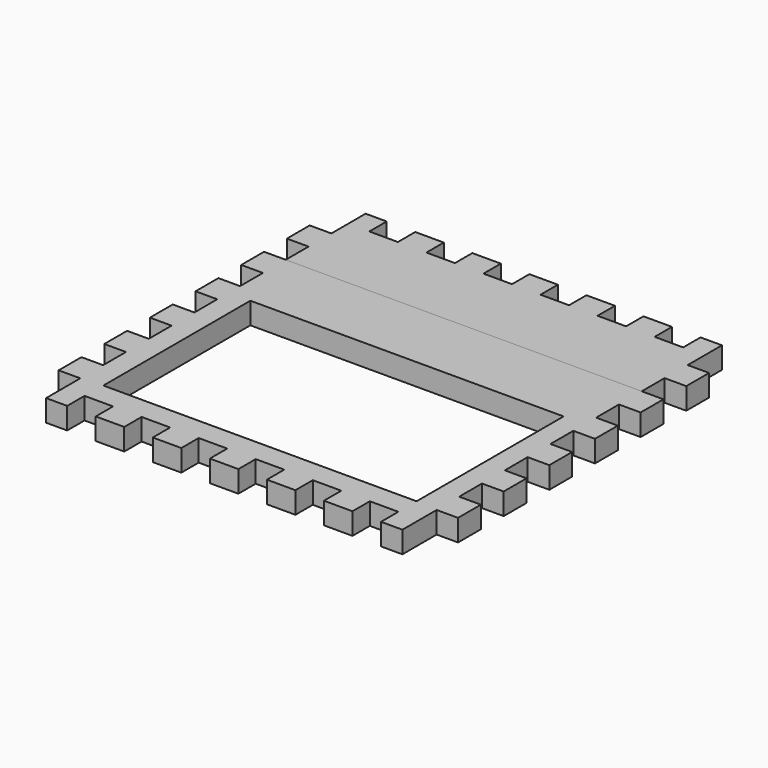
from build123d import *

# Parameters (mm, degrees)
F0_W     = 139.446
F0_H     = 81.788
F1_DEPTH = 9.652
F2_DEPTH = 9.652


with BuildPart() as f1:
    # F0 (on Top) → F1 (new body)
    with BuildSketch(Plane.XY):
        Polygon((168.148, -44.45), (9.652, -44.45), (0, -44.45), (0, -57.15), (9.652, -57.15), (9.652, -69.85), (0, -69.85), (0, -82.55), (9.652, -82.55), (9.652, -95.25), (0, -95.25), (0, -107.95), (9.652, -107.95), (9.652, -120.65), (0, -120.65), (0, -133.35), (9.652, -133.35), (9.652, -146.05), (0, -146.05), (0, -158.75), (9.652, -158.75), (9.652, -177.8), (19.05, -177.8), (19.05, -168.148), (31.75, -168.148), (31.75, -177.8), (44.45, -177.8), (44.45, -168.148), (57.15, -168.148), (57.15, -177.8), (69.85, -177.8), (69.85, -168.148), (82.55, -168.148), (82.55, -177.8), (95.25, -177.8), (95.25, -168.148), (107.95, -168.148), (107.95, -177.8), (120.65, -177.8), (120.65, -168.148), (133.35, -168.148), (133.35, -177.8), (146.05, -177.8), (146.05, -168.148), (158.75, -168.148), (158.75, -177.8), (168.275, -177.8), (168.275, -158.75), (177.8, -158.75), (177.8, -146.05), (168.148, -146.05), (168.148, -133.35), (177.8, -133.35), (177.8, -120.65), (168.148, -120.65), (168.148, -107.95), (177.8, -107.95), (177.8, -95.25), (168.148, -95.25), (168.148, -82.55), (177.8, -82.55), (177.8, -69.85), (168.148, -69.85), (168.148, -57.15), (177.8, -57.15), (177.8, -44.45), align=None)
        with Locations((89.027, -117.094)):
            Rectangle(F0_W, F0_H, mode=Mode.SUBTRACT)
    extrude(amount=F1_DEPTH)


with BuildPart() as f2:
    # F0 (on Top) → F2 (new body)
    with BuildSketch(Plane.XY):
        Polygon((19.05, 0), (9.652, 0), (9.652, -19.05), (0, -19.05), (0, -31.75), (9.652, -31.75), (9.652, -44.45), (168.148, -44.45), (168.148, -31.75), (177.8, -31.75), (177.8, -19.05), (168.275, -19.05), (168.275, 0), (158.75, 0), (158.75, -9.652), (146.05, -9.652), (146.05, 0), (133.35, 0), (133.35, -9.652), (120.65, -9.652), (120.65, 0), (107.95, 0), (107.95, -9.652), (95.25, -9.652), (95.25, 0), (82.55, 0), (82.55, -9.652), (69.85, -9.652), (69.85, 0), (57.15, 0), (57.15, -9.652), (44.45, -9.652), (44.45, 0), (31.75, 0), (31.75, -9.652), (19.05, -9.652), align=None)
    extrude(amount=F2_DEPTH)


solid = Compound([f1.part, f2.part])
